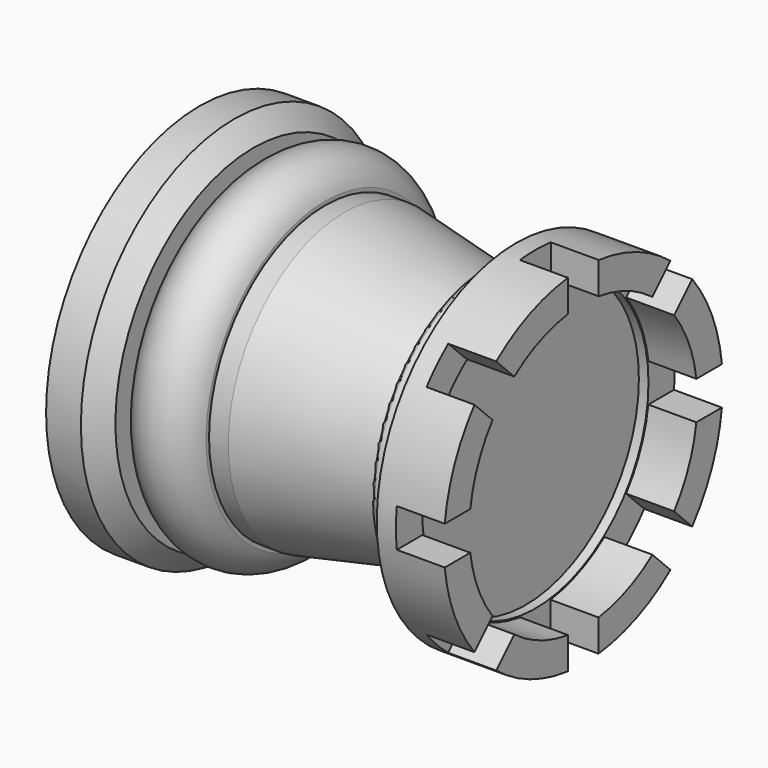
from build123d import *

# Parameters (mm, degrees)
F0_W     = 1.2712626288
F0_H     = 9.6255521612
F3_SIZE  = 1.27
F4_R     = 0.254
F5_DEPTH = 3.175
F6_R     = 9.3595697084
F7_DEPTH = 0.635


with BuildPart() as f1:
    # F0 (on Front) → F1 (revolve)
    with BuildSketch(Plane.XZ):
        Polygon((-15.8015552493, 0), (0, 0), (0, 11.5354972151), (-4.445, 11.5354972151), (-4.445, 9.6304972151), (-6.35, 9.6304972151), (-6.35, 7.7254972151), (-15.8015552493, 9.6255521612), align=None)
        with Locations((-16.4371865637, 4.8127760806)):
            Rectangle(F0_W, F0_H)
        with BuildLine():
            Line((-25.4, 0), (-17.0728178781, 0))
            Line((-17.0728178781, 0), (-17.0728178781, 9.6255521612))
            Line((-17.0728178781, 9.6255521612), (-17.0728178781, 9.8811152703))
            ThreePointArc((-17.0728178781, 9.8811152703), (-19.4495251043, 11.6341692899), (-21.8262323304, 9.8811152703))
            Line((-21.8262323304, 9.8811152703), (-21.8262323304, 12.7))
            Line((-21.8262323304, 12.7), (-25.4, 12.7))
            Line((-25.4, 12.7), (-25.4, 0))
        make_face()
    revolve(axis=Axis((-12.7, 0, 0), (-1, 0, 0)))

    # F3
    f3_edges = [f1.edges().sort_by_distance(p)[0] for p in [
        (-21.826232, 0, -12.7),
    ]]
    chamfer(f3_edges, length=F3_SIZE)

    # F4
    f4_edges = [f1.edges().sort_by_distance(p)[0] for p in [
        (-6.35, 0, -9.630497),
    ]]
    fillet(f4_edges, radius=F4_R)

    # F2 (on face) → F5 (cut)
    with BuildSketch(Plane.YZ):
        with BuildLine():
            ThreePointArc((-7.5107795932, 5.714728369), (-6.6734522711, 6.6734522711), (-5.714728369, 7.5107795932))
            Line((-5.714728369, 7.5107795932), (-7.2092179392, 9.0052691634))
            ThreePointArc((-7.2092179392, 9.0052691634), (-8.1568283052, 8.1568283052), (-9.0052691634, 7.2092179392))
            Line((-9.0052691634, 7.2092179392), (-7.5107795932, 5.714728369))
        make_face()
        with BuildLine():
            ThreePointArc((-1.2562011473, 9.3537099114), (0.0090057319, 9.4376824129), (1.2740500488, 9.3512954665))
            Line((1.2740500488, 9.3512954665), (1.2760667257, 11.464700158))
            ThreePointArc((1.2760667257, 11.464700158), (0.0010145552, 11.5354971705), (-1.2740500488, 11.4649244426))
            Line((-1.2740500488, 11.4649244426), (-1.2562011473, 9.3537099114))
        make_face()
        with BuildLine():
            ThreePointArc((5.714728369, 7.5107795932), (6.6752371757, 6.671666889), (7.5138358891, 5.7107092958))
            Line((7.5138358891, 5.7107092958), (9.0052691634, 7.2092179392))
            ThreePointArc((9.0052691634, 7.2092179392), (8.1568283052, 8.1568283052), (7.2092179392, 9.0052691634))
            Line((7.2092179392, 9.0052691634), (5.714728369, 7.5107795932))
        make_face()
        with BuildLine():
            ThreePointArc((9.3537099114, 1.2562011473), (9.4166691071, 0.6295024673), (9.4376867096, 0))
            ThreePointArc((9.4376867096, 0), (9.4160641292, -0.6384878569), (9.3512954665, -1.2740500488))
            Line((9.3512954665, -1.2740500488), (11.4649244426, -1.2740500488))
            ThreePointArc((11.4649244426, -1.2740500488), (11.517840509, -0.6380015758), (11.5354972151, 0))
            ThreePointArc((11.5354972151, 0), (11.5183888753, 0.6280236595), (11.4671146028, 1.2541844704))
            Line((11.4671146028, 1.2541844704), (9.3537099114, 1.2562011473))
        make_face()
        with BuildLine():
            Line((9.0052691634, -7.2092179392), (7.5107795932, -5.714728369))
            ThreePointArc((7.5107795932, -5.714728369), (6.6734522711, -6.6734522711), (5.714728369, -7.5107795932))
            Line((5.714728369, -7.5107795932), (7.2092179392, -9.0052691634))
            ThreePointArc((7.2092179392, -9.0052691634), (8.1568283052, -8.1568283052), (9.0052691634, -7.2092179392))
        make_face()
        with BuildLine():
            Line((1.2541844704, -11.4671146028), (1.2562011473, -9.3537099114))
            ThreePointArc((1.2562011473, -9.3537099114), (-0.0090057319, -9.4376824129), (-1.2740500488, -9.3512954665))
            Line((-1.2740500488, -9.3512954665), (-1.2740500488, -11.4649244426))
            ThreePointArc((-1.2740500488, -11.4649244426), (-0.0099929726, -11.5354928868), (1.2541844704, -11.4671146028))
        make_face()
        with BuildLine():
            Line((-7.2092179392, -9.0052691634), (-5.7192543462, -7.5073337579))
            ThreePointArc((-5.7192543462, -7.5073337579), (-6.6754631322, -6.6714408039), (-7.5107795932, -5.714728369))
            Line((-7.5107795932, -5.714728369), (-9.0052691634, -7.2092179392))
            ThreePointArc((-9.0052691634, -7.2092179392), (-8.1568283052, -8.1568283052), (-7.2092179392, -9.0052691634))
        make_face()
        with BuildLine():
            ThreePointArc((-9.3512954665, -1.2740500488), (-9.4376867096, 0), (-9.3512954665, 1.2740500488))
            Line((-9.3512954665, 1.2740500488), (-11.464700158, 1.2760667257))
            ThreePointArc((-11.464700158, 1.2760667257), (-11.5354971705, 0.0010145552), (-11.4649244426, -1.2740500488))
            Line((-11.4649244426, -1.2740500488), (-9.3512954665, -1.2740500488))
        make_face()
        with BuildLine():
            ThreePointArc((9.3512954665, -1.2740500488), (9.4160641292, -0.6384878569), (9.4376867096, 0))
            ThreePointArc((9.4376867096, 0), (9.4166691071, 0.6295024673), (9.3537099114, 1.2562011473))
            ThreePointArc((9.3537099114, 1.2562011473), (8.7229115577, 3.6028800126), (7.5138358891, 5.7107092958))
            ThreePointArc((7.5138358891, 5.7107092958), (6.6752371757, 6.671666889), (5.714728369, 7.5107795932))
            ThreePointArc((5.714728369, 7.5107795932), (3.6135343658, 8.7185033014), (1.2740500488, 9.3512954665))
            ThreePointArc((1.2740500488, 9.3512954665), (0.0090057319, 9.4376824129), (-1.2562011473, 9.3537099114))
            ThreePointArc((-1.2562011473, 9.3537099114), (-3.6052132558, 8.721947478), (-5.714728369, 7.5107795932))
            ThreePointArc((-5.714728369, 7.5107795932), (-6.6734522711, 6.6734522711), (-7.5107795932, 5.714728369))
            ThreePointArc((-7.5107795932, 5.714728369), (-8.7185033014, 3.6135343658), (-9.3512954665, 1.2740500488))
            ThreePointArc((-9.3512954665, 1.2740500488), (-9.4376867096, 0), (-9.3512954665, -1.2740500488))
            ThreePointArc((-9.3512954665, -1.2740500488), (-8.7185033014, -3.6135343658), (-7.5107795932, -5.714728369))
            ThreePointArc((-7.5107795932, -5.714728369), (-6.6754631322, -6.6714408039), (-5.7192543462, -7.5073337579))
            ThreePointArc((-5.7192543462, -7.5073337579), (-3.6161616786, -8.7174139023), (-1.2740500488, -9.3512954665))
            ThreePointArc((-1.2740500488, -9.3512954665), (-0.0090057319, -9.4376824129), (1.2562011473, -9.3537099114))
            ThreePointArc((1.2562011473, -9.3537099114), (3.6052132558, -8.721947478), (5.714728369, -7.5107795932))
            ThreePointArc((5.714728369, -7.5107795932), (6.6734522711, -6.6734522711), (7.5107795932, -5.714728369))
            ThreePointArc((7.5107795932, -5.714728369), (8.7185033014, -3.6135343658), (9.3512954665, -1.2740500488))
        make_face()
    extrude(amount=-F5_DEPTH, mode=Mode.SUBTRACT)

    # F6 (on face) → F7 (cut)
    with BuildSketch(Plane.YZ.offset(-3.175)):
        Circle(F6_R)
    extrude(amount=-F7_DEPTH, mode=Mode.SUBTRACT)


solid = f1.part
